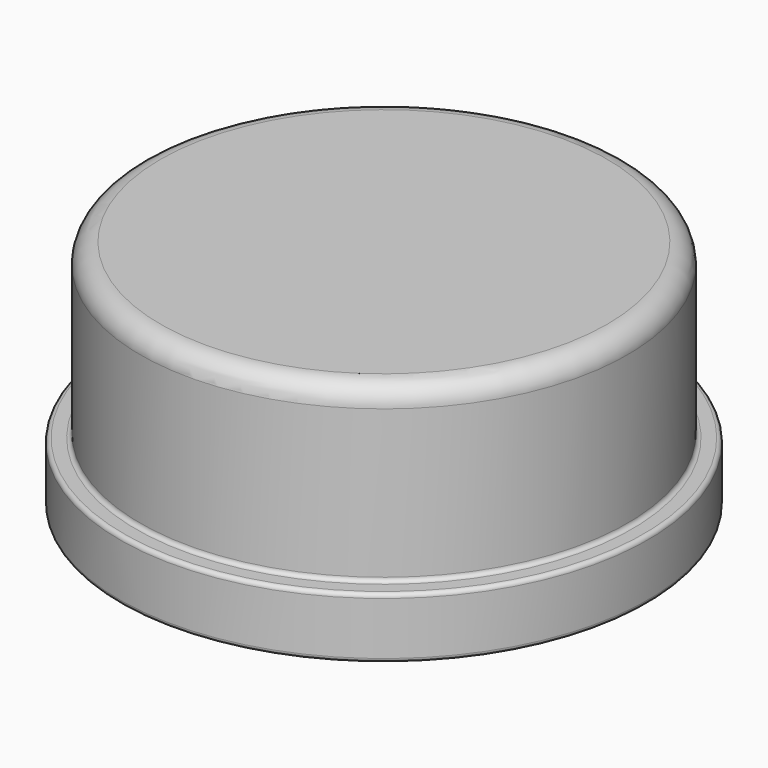
from build123d import *

# Parameters (mm, degrees)
FILLET_R     = 0.5
FILLET001_R  = 0.1
SKETCH001_R  = 1.5
POCKET_DEPTH = 2


with BuildPart() as part:
    # Sketch → Revolution (revolve)
    with BuildSketch(Plane.XZ):
        Polygon((-6.5, 0), (-6.5, 1.5), (-6, 1.5), (-6, 5.75), (0, 5.75), (0, 0), align=None)
    revolve(axis=Axis((0, 0, 0), (0, 0, 1)))

    # Fillet
    fillet_edges = [part.edges().sort_by_distance(p)[0] for p in [
        (6, 0, 5.75),
    ]]
    fillet(fillet_edges, radius=FILLET_R)

    # Fillet001
    fillet001_edges = [part.edges().sort_by_distance(p)[0] for p in [
        (6.5, 0, 1.5),
        (6, 0, 1.5),
        (6.5, 0, 0),
    ]]
    fillet(fillet001_edges, radius=FILLET001_R)

    # Sketch001 (on Face9 of Fillet001) → Pocket (cut)
    with BuildSketch(Plane(origin=(0, 0, 0), x_dir=(1, 0, 0), z_dir=(0, 0, -1))):
        Circle(SKETCH001_R)
    extrude(amount=-POCKET_DEPTH, mode=Mode.SUBTRACT)


solid = part.part
